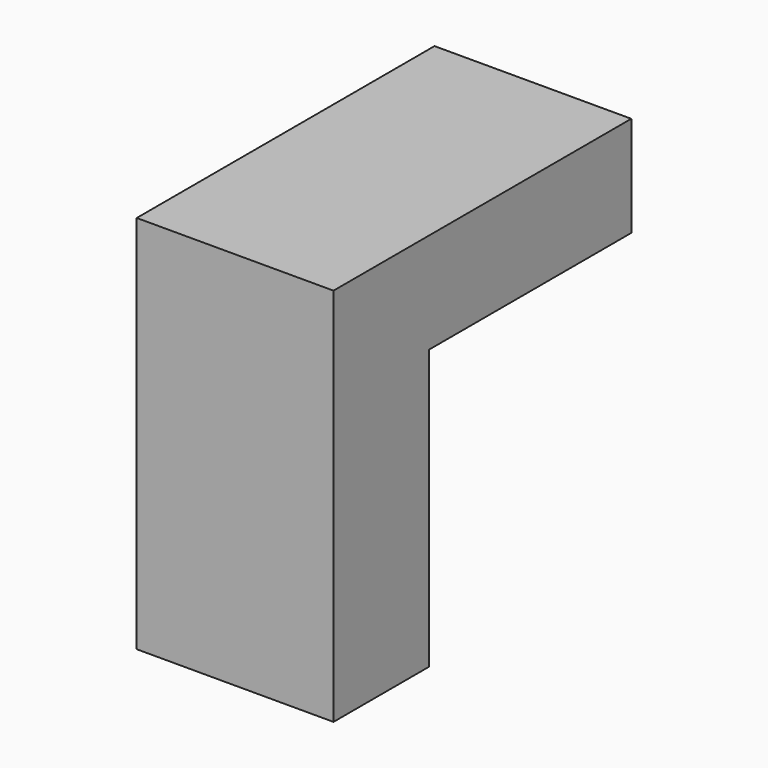
from build123d import *

# Parameters (mm, degrees)
F0_W     = 32.1596805006
F0_H     = 12.7692851238
F1_DEPTH = 25
F2_T     = -2.5


with BuildPart() as f1:
    # F0 (on Right) → F1 (new body)
    with BuildSketch(Plane.YZ):
        with Locations((-2.3078126833, 13.5815928224)):
            Rectangle(F0_W, F0_H)
        Polygon((-18.3876529336, 19.9662353843), (-33.5216186941, 19.9662353843), (-33.5216186941, -28.2732862979), (-18.3876529336, -28.2732862979), (-18.3876529336, 7.1969502605), align=None)
    extrude(amount=F1_DEPTH)

    # F2
    f2_openings = [f1.faces().sort_by_distance(p)[0] for p in [
        (12.5, 13.772028, 13.581593),
    ]]
    offset(amount=F2_T, openings=f2_openings, kind=Kind.INTERSECTION)


solid = f1.part
